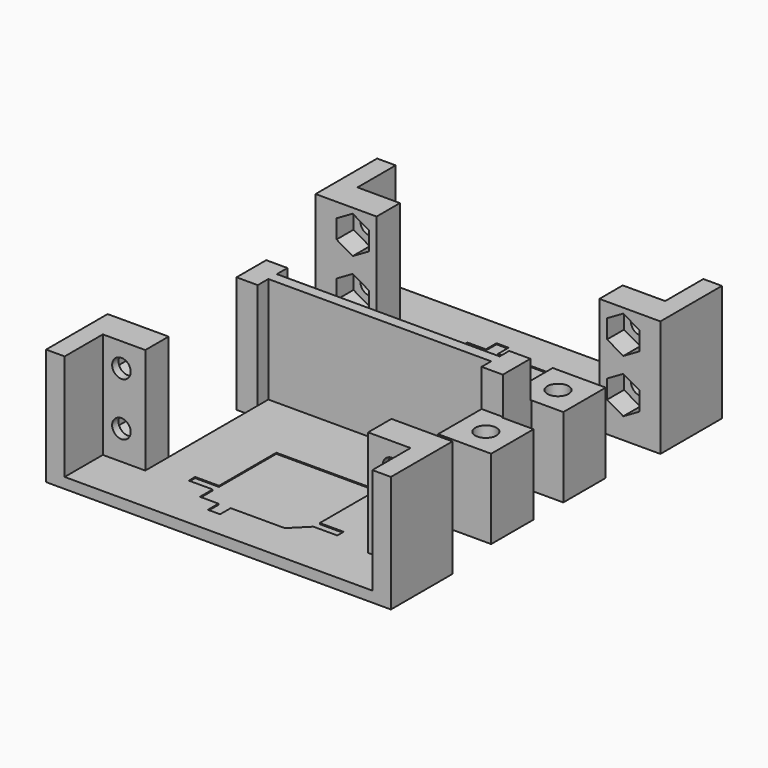
from build123d import *

# Parameters (mm, degrees)
PAD_DEPTH       = 22
POCKET_DEPTH    = 20
SKETCH002_W     = 12
SKETCH002_H     = 12
POCKET001_DEPTH = 7
SKETCH003_R     = 2
POCKET002_DEPTH = 15.001
SKETCH004_R     = 1.75
POCKET003_DEPTH = 6
SKETCH005_R     = 1.75
POCKET004_DEPTH = 6
POCKET005_DEPTH = 4
POCKET006_DEPTH = 4
POCKET007_DEPTH = 0.2


with BuildPart() as part:
    # Sketch → Pad (new body)
    with BuildSketch(Plane.XY):
        Polygon((-32.5, -39), (-32.5, -24.5), (-21, -24.5), (-21, -3.5), (-25, -3.5), (-25, 3.5), (-21, 3.5), (-21, 24.5), (-32.5, 24.5), (-32.5, 39), (32.5, 39), (32.5, 24.5), (21, 24.5), (21, 13.5), (31, 13.5), (31, 3.5), (25, 3.5), (25, -3.5), (31, -3.5), (31, -13.5), (21, -13.5), (21, -24.5), (32.5, -24.5), (32.5, -39), align=None)
    extrude(amount=PAD_DEPTH)

    # Sketch001 → Pocket (cut)
    with BuildSketch(Plane.XY.offset(22)):
        Polygon((-29, 39), (-29, 30), (-21, 30), (-21, 1), (21, 1), (21, 30), (29, 30), (29, 39), align=None)
        Polygon((21, -1), (-21, -1), (-21, -30), (-29, -30), (-29, -39), (29, -39), (29, -30), (21, -30), align=None)
    extrude(amount=-POCKET_DEPTH, mode=Mode.SUBTRACT)

    # Sketch002 → Pocket001 (cut)
    with BuildSketch(Plane.XY.offset(22)):
        with Locations((27, 9.25)):
            Rectangle(SKETCH002_W, SKETCH002_H)
        with Locations((27, -9.25)):
            Rectangle(SKETCH002_W, SKETCH002_H)
    extrude(amount=-POCKET001_DEPTH, mode=Mode.SUBTRACT)

    # Sketch003 → Pocket002 (cut, through all)
    with BuildSketch(Plane.XY.offset(15)):
        with Locations((26, 8.5)):
            Circle(SKETCH003_R)
        with Locations((26, -8.5)):
            Circle(SKETCH003_R)
    extrude(amount=-POCKET002_DEPTH, mode=Mode.SUBTRACT)

    # Sketch004 → Pocket003 (cut)
    with BuildSketch(Plane.XZ.offset(30)):
        with Locations((-25.5, 17.5)):
            Circle(SKETCH004_R)
        with Locations((-25.5, 7.5)):
            Circle(SKETCH004_R)
        with Locations((25.5, 17.5)):
            Circle(SKETCH004_R)
        with Locations((25.5, 7.5)):
            Circle(SKETCH004_R)
    extrude(amount=-POCKET003_DEPTH, mode=Mode.SUBTRACT)

    # Sketch005 → Pocket004 (cut)
    with BuildSketch(Plane(origin=(0, 30, 0), x_dir=(-1, 0, 0), z_dir=(0, 1, 0))):
        with Locations((-25.5, 17.5)):
            Circle(SKETCH005_R)
        with Locations((-25.5, 7.5)):
            Circle(SKETCH005_R)
        with Locations((25.5, 17.5)):
            Circle(SKETCH005_R)
        with Locations((25.5, 7.5)):
            Circle(SKETCH005_R)
    extrude(amount=-POCKET004_DEPTH, mode=Mode.SUBTRACT)

    # Sketch007 → Pocket005 (cut)
    with BuildSketch(Plane.XZ.offset(-24.5)):
        Polygon((-25.5, 21.021837), (-28.55, 19.260918), (-28.55, 15.739082), (-25.5, 13.978163), (-22.45, 15.739082), (-22.45, 19.260918), align=None)
        Polygon((-25.5, 11.021837), (-28.55, 9.260918), (-28.55, 5.739082), (-25.5, 3.978163), (-22.45, 5.739082), (-22.45, 9.260918), align=None)
    pocket005 = extrude(amount=-POCKET005_DEPTH, mode=Mode.SUBTRACT)

    # Mirrored: Pocket005 across Sketch007 V_Axis
    add(pocket005.mirror(Plane(origin=(0, 24.5, 0), x_dir=(0, -1, 0), z_dir=(1, 0, 0))), mode=Mode.SUBTRACT)

    # Sketch006 → Pocket006 (cut)
    with BuildSketch(Plane(origin=(0, -24.5, 0), x_dir=(-1, 0, 0), z_dir=(0, 1, 0))):
        Polygon((-25.5, 21.021837), (-28.55, 19.260918), (-28.55, 15.739082), (-25.5, 13.978163), (-22.45, 15.739082), (-22.45, 19.260918), align=None)
        Polygon((-25.5, 11.021837), (-28.55, 9.260918), (-28.55, 5.739082), (-25.5, 3.978163), (-22.45, 5.739082), (-22.45, 9.260918), align=None)
    pocket006 = extrude(amount=-POCKET006_DEPTH, mode=Mode.SUBTRACT)

    # Mirrored001: Pocket006 across Sketch006 V_Axis
    add(pocket006.mirror(Plane(origin=(0, -24.5, 0), x_dir=(0, 1, 0), z_dir=(-1, 0, 0))), mode=Mode.SUBTRACT)

    # Sketch008 → Pocket007 (cut)
    with BuildSketch(Plane.XY.offset(2)):
        Polygon((9.5, 13.5), (-9.5, 13.5), (-9.5, 27), (-14, 27), (-14, 28.5), (-9.5, 28.5), (-9.5, 31.5), (-6, 31.5), (-6, 34), (-3.7, 34), (-3.7, 31.5), (6.5, 31.5), (9.5, 28.5), (14, 28.5), (14, 27), (9.5, 27), align=None)
    pocket007 = extrude(amount=-POCKET007_DEPTH, mode=Mode.SUBTRACT)

    # Mirrored002: Pocket007 across Sketch008 H_Axis
    add(pocket007.mirror(Plane(origin=(0, 0, 2), x_dir=(0, 0, 1), z_dir=(0, 1, 0))), mode=Mode.SUBTRACT)


solid = part.part
